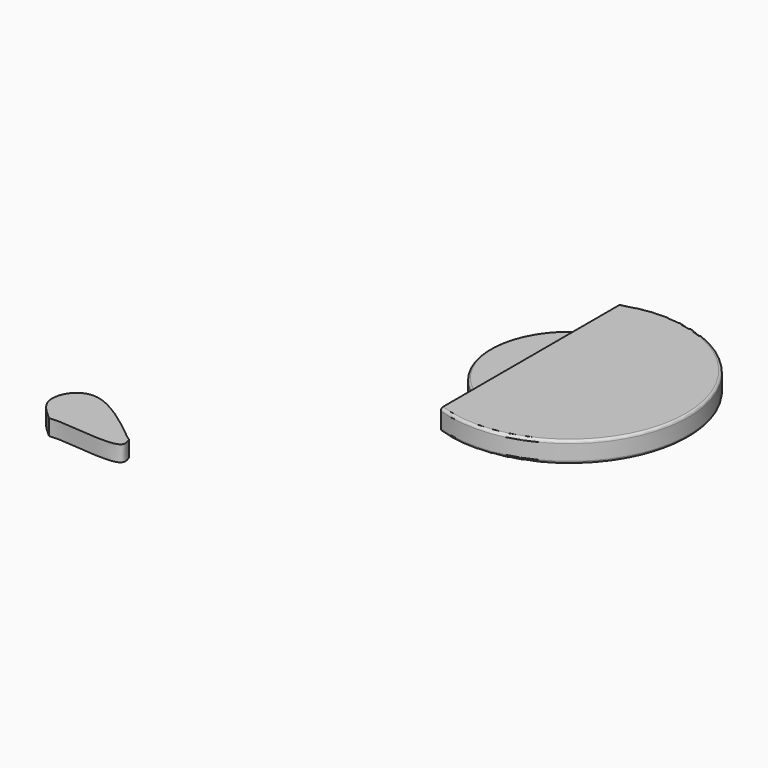
from build123d import *

# Parameters (mm, degrees)
F0_R      = 11.5
F1_DEPTH  = 2
F2_R      = 0.25
F4_W      = 11.9758034125
F4_H      = 30.4838698357
F5_DEPTH  = 2
F7_SCALE  = 1.5
F8_W      = 23.2
F8_H      = 2.2
F9_DEPTH  = 17.6
F10_R     = 3
F14_DEPTH = 2.3


with BuildPart() as f1:
    # F0 (on Top) → F1 (new body)
    with BuildSketch(Plane.XY):
        Circle(F0_R)
    extrude(amount=F1_DEPTH)

    # F2
    f2_edges = [f1.edges().sort_by_distance(p)[0] for p in [
        (-11.5, 0, 2),
        (-11.5, 0, 0),
    ]]
    fillet(f2_edges, radius=F2_R)


with BuildPart() as f3_1:
    # F3: copy of F1
    add(f1.part.moved(Location((0, 36.3, 0))))


with BuildPart() as f5:
    # F4 (on Top) → F5 (new body)
    with BuildSketch(Plane.XY):
        with Locations((-9.7076627426, 36.0181452706)):
            Rectangle(F4_W, F4_H)
    extrude(amount=F5_DEPTH)


with BuildPart() as f3_1_1:
    add(f3_1.part)

    # F6: cut F5
    add(f5.part, mode=Mode.SUBTRACT)


with BuildPart() as f3_1_2:
    # F7: moved
    add(f3_1_1.part.scale(F7_SCALE))

    # F8 (on face) → F9 (cut)
    with BuildSketch(Plane(origin=(-5.5796415545, 0, 0), x_dir=(0, -1, 0), z_dir=(-1, 0, 0))):
        with Locations((-54.45, 1.5)):
            Rectangle(F8_W, F8_H)
    extrude(amount=-F9_DEPTH, mode=Mode.SUBTRACT)

    # F10
    f10_edges = [f3_1_2.edges().sort_by_distance(p)[0] for p in [
        (12.020358, 66.05, 1.5),
        (12.020358, 42.85, 1.5),
    ]]
    fillet(f10_edges, radius=F10_R)


with BuildPart() as f1_1:
    # F11: moved
    add(f1.part.moved(Location((0, 54.5, 0))))


with BuildPart() as f1_2:
    # F12: moved
    add(f1_1.part.moved(Location((0, -56.7, 0))))


with BuildPart() as f3_1_3:
    # F12: moved
    add(f3_1_2.part.moved(Location((0, -56.7, 0))))


with BuildPart() as f14:
    # F13 (on Top) → F14 (new body)
    with BuildSketch(Plane.XY):
        with BuildLine():
            add(Edge.make_bspline(
                [(-39.5090132952, -47.1018403769), (-40.8383159654, -45.9506011725), (-43.5357490148, -43.614496125), (-39.0546507092, -36.3150736548), (-29.5118768814, -45.586881248), (-29.1647656366, -45.5201612247)],
                knots=[0, 0, 0, 0, 0.248186481, 0.503622261, 0.8758885945, 0.8758885945, 0.8758885945, 0.8758885945], degree=3))
            add(Edge.make_bspline(
                [(-39.5090132952, -47.1018403769), (-38.9190777721, -47.053680086), (-37.274833874, -46.9194497146), (-28.2602574539, -48.1772253362), (-28.8976209009, -46.1553623507), (-29.1647656366, -45.5201612247)],
                knots=[0, 0, 0, 0, 0.2737686831, 0.763036754, 0.9712542683, 0.9712542683, 0.9712542683, 0.9712542683], degree=3))
        make_face()
    extrude(amount=F14_DEPTH)


with BuildPart() as f15_1:
    # F15: copy of F14
    add(f14.part)


solid = Compound([f1_2.part, f3_1_3.part, f14.part, f15_1.part])
